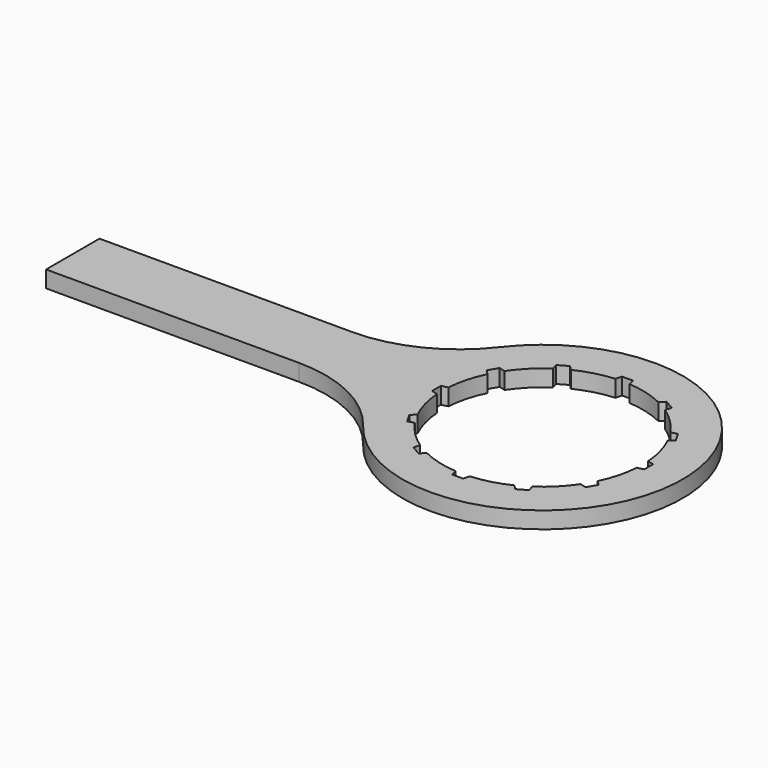
from build123d import *

# Parameters (mm, degrees)
PAD_DEPTH          = 5
SKETCH001_R        = 30
POCKET_DEPTH       = 5.001
POCKET001_DEPTH    = 407.463283
POLARPATTERN_COUNT = 12
FILLET_R           = 40
FILLET001_R        = 40


with BuildPart() as part:
    # Sketch → Pad (new body)
    with BuildSketch(Plane.XY):
        with BuildLine():
            Line((-140.792156, 10), (-40.792156, 10))
            ThreePointArc((-40.792156, -10), (42, 0), (-40.792156, 10))
            Line((-40.792156, -10), (-140.792156, -10))
            Line((-140.792156, -10), (-140.792156, 10))
        make_face()
    extrude(amount=PAD_DEPTH)

    # Sketch001 → Pocket (cut, through all)
    with BuildSketch(Plane.XY.offset(5)):
        Circle(SKETCH001_R)
    extrude(amount=-POCKET_DEPTH, mode=Mode.SUBTRACT)

    # Sketch002 → Pocket001 (cut, through all)
    with BuildSketch(Plane.XY.offset(5)):
        Polygon((-1.65, 31.8), (-2.15, 29.8), (2.15, 29.8), (1.65, 31.8), align=None)
    pocket001 = extrude(amount=-POCKET001_DEPTH, mode=Mode.SUBTRACT)

    # PolarPattern: Pocket001 ×12 about axis
    polarpattern_axis = Axis((0, 0, 5), (0, 0, 1))
    for i in range(1, POLARPATTERN_COUNT):
        add(pocket001.rotate(polarpattern_axis, i * 360 / POLARPATTERN_COUNT), mode=Mode.SUBTRACT)

    # Fillet
    fillet_edges = [part.edges().sort_by_distance(p)[0] for p in [
        (-40.792156, -10, 2.5),
    ]]
    fillet(fillet_edges, radius=FILLET_R)

    # Fillet001
    fillet001_edges = [part.edges().sort_by_distance(p)[0] for p in [
        (-40.792156, 10, 2.5),
    ]]
    fillet(fillet001_edges, radius=FILLET001_R)


solid = part.part
